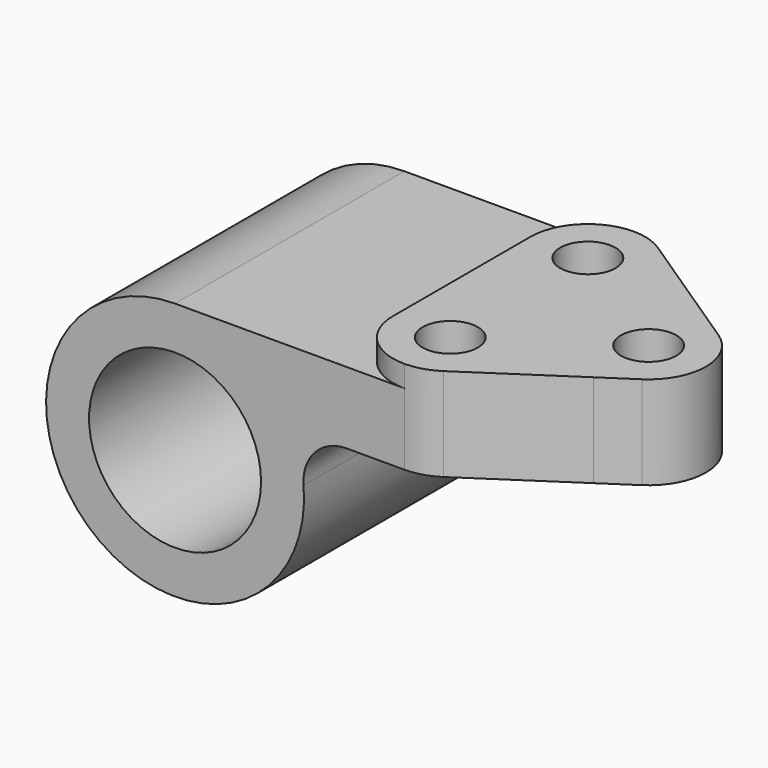
from build123d import *

# Parameters (mm, degrees)
F0_R     = 19.05
F1_DEPTH = 63.5
F2_DEPTH = 63.5
F4_DEPTH = 4.7752
F5_DEPTH = 25.4
F6_DEPTH = 15.875
F7_R     = 6.1341
F8_DEPTH = 25.4


with BuildPart() as f1:
    # F0 (on Front) → F1 (new body)
    with BuildSketch(Plane.XZ):
        with BuildLine():
            Line((79.502, 28.575), (0, 28.575))
            ThreePointArc((0, 28.575), (-19.345366451, -21.0306305629), (28.4756083945, 2.38125))
            ThreePointArc((28.4756083945, 2.38125), (30.9572676717, 9.6234554837), (37.9674778593, 12.7))
            Line((37.9674778593, 12.7), (79.502, 12.7))
            Line((79.502, 12.7), (79.502, 28.575))
        make_face()
        Circle(F0_R, mode=Mode.SUBTRACT)
    extrude(amount=F1_DEPTH)

    # F0 (on Front) → F2 (join)
    with BuildSketch(Plane.XZ):
        with BuildLine():
            Line((79.502, 28.575), (0, 28.575))
            ThreePointArc((0, 28.575), (-19.345366451, -21.0306305629), (28.4756083945, 2.38125))
            ThreePointArc((28.4756083945, 2.38125), (30.9572676717, 9.6234554837), (37.9674778593, 12.7))
            Line((37.9674778593, 12.7), (79.502, 12.7))
            Line((79.502, 12.7), (79.502, 28.575))
        make_face()
        Circle(F0_R, mode=Mode.SUBTRACT)
    extrude(amount=F2_DEPTH)

    # F3 (on face) → F4 (join)
    with BuildSketch(Plane.XY.offset(28.575)):
        with BuildLine():
            ThreePointArc((86.5250683207, -42.3314229366), (83.1698282884, -43.9088254222), (79.502, -44.45))
            Line((79.502, -44.45), (79.502, -46.992751468))
            Line((79.502, -46.992751468), (86.5250683207, -42.3314229366))
        make_face()
        with BuildLine():
            Line((86.5250683207, -21.1685770634), (79.502, -16.507248532))
            Line((79.502, -16.507248532), (79.502, -19.05))
            ThreePointArc((79.502, -19.05), (83.1698282884, -19.5911745778), (86.5250683207, -21.1685770634))
        make_face()
        with BuildLine():
            ThreePointArc((86.5250683207, -21.1685770634), (83.1698282884, -19.5911745778), (79.502, -19.05))
            Line((79.502, -19.05), (79.502, -44.45))
            ThreePointArc((79.502, -44.45), (83.1698282884, -43.9088254222), (86.5250683207, -42.3314229366))
            ThreePointArc((86.5250683207, -42.3314229366), (92.202, -31.75), (86.5250683207, -21.1685770634))
        make_face()
        with BuildLine():
            ThreePointArc((57.8230683207, -2.1185770634), (54.467828274, -0.5411745735), (50.7999999699, 0))
            ThreePointArc((50.7999999699, 0), (41.8197438683, -3.7197438896), (38.1, -12.7))
            Line((38.1, -12.7), (38.1, -50.8))
            ThreePointArc((38.1, -50.8), (41.8197438789, -59.7802561211), (50.8, -63.5))
            ThreePointArc((50.8, -63.5), (54.4678282884, -62.9588254222), (57.8230683207, -61.3814229366))
            Line((57.8230683207, -61.3814229366), (79.502, -46.992751468))
            Line((79.502, -46.992751468), (79.502, -44.45))
            Line((79.502, -44.45), (79.502, -19.05))
            Line((79.502, -19.05), (79.502, -16.507248532))
            Line((79.502, -16.507248532), (57.8230683207, -2.1185770634))
        make_face()
    extrude(amount=F4_DEPTH)

    # F5 (cut): faces of the model
    f5_faces = [f1.faces().sort_by_distance(p)[0] for p in [
        (71.0984865621, -5.4680526569, 28.575),
        (71.0984865621, -58.0319473431, 28.575),
    ]]
    extrude(f5_faces, amount=-F5_DEPTH, mode=Mode.SUBTRACT)

    # F6 (add): a face of the model
    f6_faces = [f1.faces().sort_by_distance(p)[0] for p in [
        (84.7235761058, -31.75, 28.575),
    ]]
    extrude(f6_faces, amount=F6_DEPTH)

    # F7 (on face) → F8 (cut)
    with BuildSketch(Plane.XY.offset(33.3502)):
        with Locations((50.8, -12.7)):
            Circle(F7_R)
        with Locations((79.502, -31.75)):
            Circle(F7_R)
        with Locations((50.8, -50.8)):
            Circle(F7_R)
    extrude(amount=-F8_DEPTH, mode=Mode.SUBTRACT)


solid = f1.part
